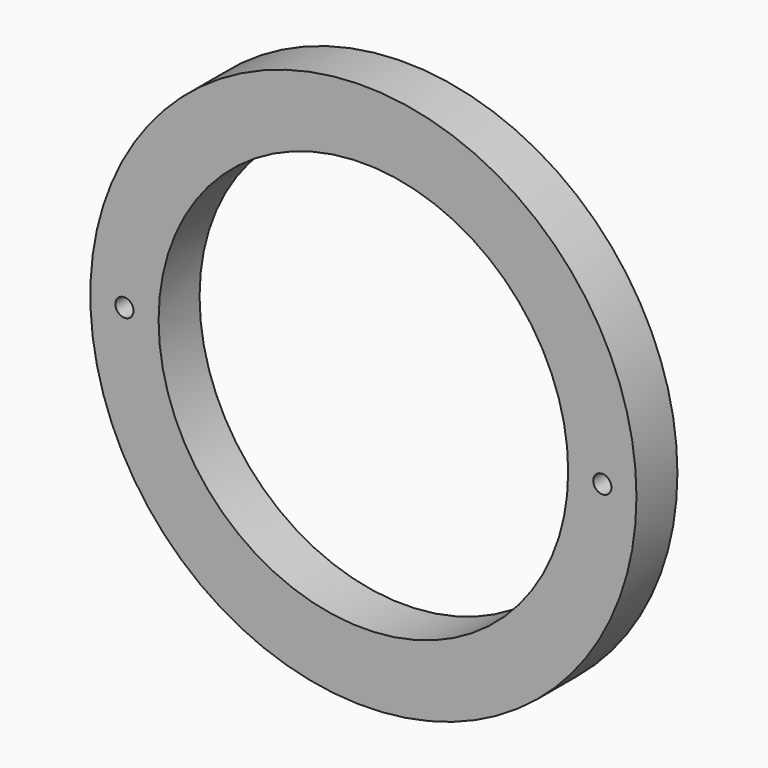
from build123d import *

# Parameters (mm, degrees)
F0_R     = 101.6
F0_R_2   = 76.2
F1_DEPTH = 19.05
F3_D     = 6.7564


with BuildPart() as f1:
    # F0 (on Front) → F1 (new body)
    with BuildSketch(Plane.XZ):
        Circle(F0_R)
        Circle(F0_R_2, mode=Mode.SUBTRACT)
    extrude(amount=F1_DEPTH)

    # F3 (through all)
    with Locations(Plane.XZ.offset(19.05)):
        with Locations((-88.9, 0), (88.9, 0)):
            Hole(F3_D / 2)


solid = f1.part
